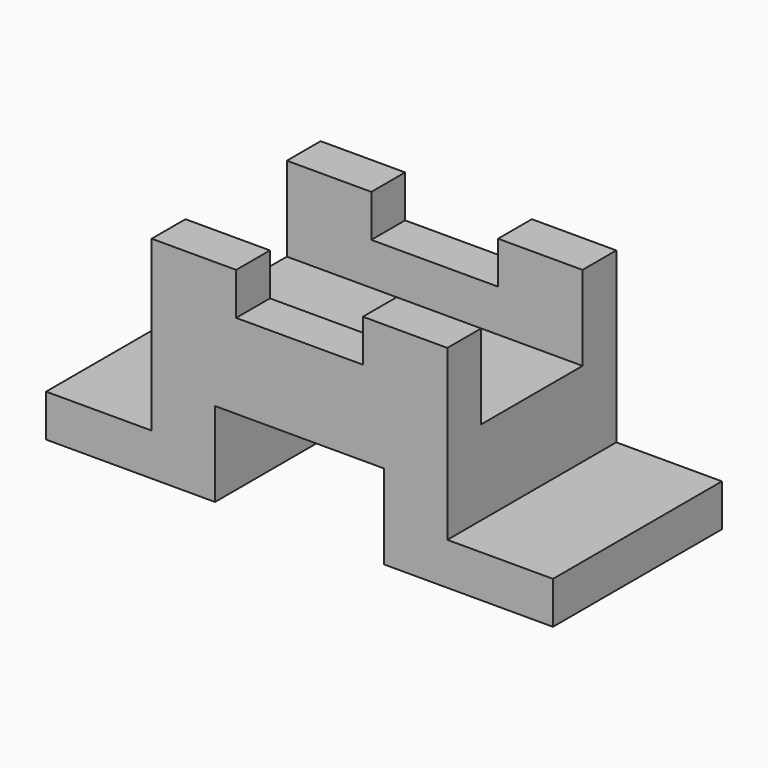
from build123d import *

# Parameters (mm, degrees)
F1_DEPTH = 25
F2_DEPTH = 15


with BuildPart() as f1:
    # F0 (on Front) → F1 (new body)
    with BuildSketch(Plane.XZ):
        Polygon((-60, 10), (-60, 0), (-20, 0), (-20, 20), (0, 20), (0, 30), (-35, 30), (-35, 10), align=None)
        Polygon((-35, 50), (-35, 30), (0, 30), (0, 40), (-15, 40), (-15, 50), align=None)
    extrude(amount=-F1_DEPTH)

    # F0 (on Front) → F2 (cut)
    with BuildSketch(Plane.XZ):
        Polygon((-35, 50), (-35, 30), (0, 30), (0, 40), (-15, 40), (-15, 50), align=None)
    extrude(amount=-F2_DEPTH, mode=Mode.SUBTRACT)

    # F3: F1 across face


with BuildPart() as f1_1:
    add(f1.part)
    add(f1.part.mirror(Plane(origin=(0, 14.642857, 27.857143), x_dir=(0, 1, 0), z_dir=(1, 0, 0))))

    # F4: F1 across face


with BuildPart() as f1_2:
    add(f1_1.part)
    add(f1_1.part.mirror(Plane(origin=(0, 0, 14.444444), x_dir=(1, 0, 0), z_dir=(0, -1, 0))))


solid = f1_2.part
